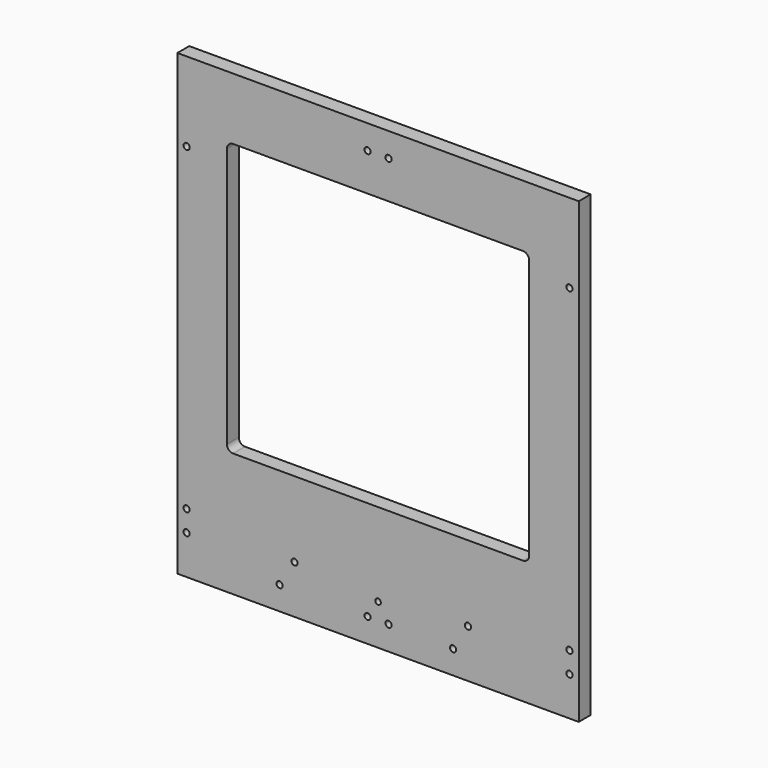
from build123d import *

# Parameters (mm, degrees)
SKETCH_W        = 324
SKETCH_H        = 370
PAD_DEPTH       = 12
POCKET_DEPTH    = 12.001
SKETCH002_R     = 2.5
POCKET001_DEPTH = 12.001
SKETCH003_R     = 2.5
SKETCH003_R_2   = 2.25
POCKET002_DEPTH = 12.001


with BuildPart() as part:
    # Sketch → Pad (new body)
    with BuildSketch(Plane.XZ):
        with Locations((0, 185)):
            Rectangle(SKETCH_W, SKETCH_H)
    extrude(amount=PAD_DEPTH)

    # Sketch001 → Pocket (cut, through all)
    with BuildSketch(Plane.XZ.offset(12)):
        with BuildLine():
            ThreePointArc((-116.999969, 320), (-120.535523, 318.535545), (-122, 315))
            Line((-122, 315), (-122, 105))
            ThreePointArc((-122, 105), (-120.535523, 101.464455), (-116.999969, 100))
            Line((-116.999969, 100), (116.999969, 100))
            ThreePointArc((116.999969, 100), (120.535503, 101.464466), (121.999969, 105))
            Line((121.999969, 105), (121.999969, 315))
            ThreePointArc((121.999969, 315), (120.535503, 318.535534), (116.999969, 320))
            Line((-116.999969, 320), (116.999969, 320))
        make_face()
    extrude(amount=-POCKET_DEPTH, mode=Mode.SUBTRACT)

    # Sketch002 → Pocket001 (cut, through all)
    with BuildSketch(Plane.XZ.offset(12)):
        with Locations((-8.475, 19.5)):
            Circle(SKETCH002_R)
        with Locations((8.475, 19.5)):
            Circle(SKETCH002_R)
        with Locations((-8.475, 350.5)):
            Circle(SKETCH002_R)
        with Locations((8.475, 350.5)):
            Circle(SKETCH002_R)
        with Locations((154.5, 31.525)):
            Circle(SKETCH002_R)
        with Locations((154.5, 306)):
            Circle(SKETCH002_R)
        with Locations((-154.5, 306)):
            Circle(SKETCH002_R)
        with Locations((-154.5, 31.525)):
            Circle(SKETCH002_R)
        with Locations((-154.5, 48.475)):
            Circle(SKETCH002_R)
        with Locations((154.5, 48.475)):
            Circle(SKETCH002_R)
    extrude(amount=-POCKET001_DEPTH, mode=Mode.SUBTRACT)

    # Sketch003 → Pocket002 (cut, through all)
    with BuildSketch(Plane.XZ.offset(12)):
        with Locations((-79.45, 19)):
            Circle(SKETCH003_R)
        with Locations((-67.45, 39)):
            Circle(SKETCH003_R)
        with Locations((60.55, 19)):
            Circle(SKETCH003_R)
        with Locations((72.55, 39)):
            Circle(SKETCH003_R)
        with Locations((0, 32.85)):
            Circle(SKETCH003_R_2)
    extrude(amount=-POCKET002_DEPTH, mode=Mode.SUBTRACT)


solid = part.part
